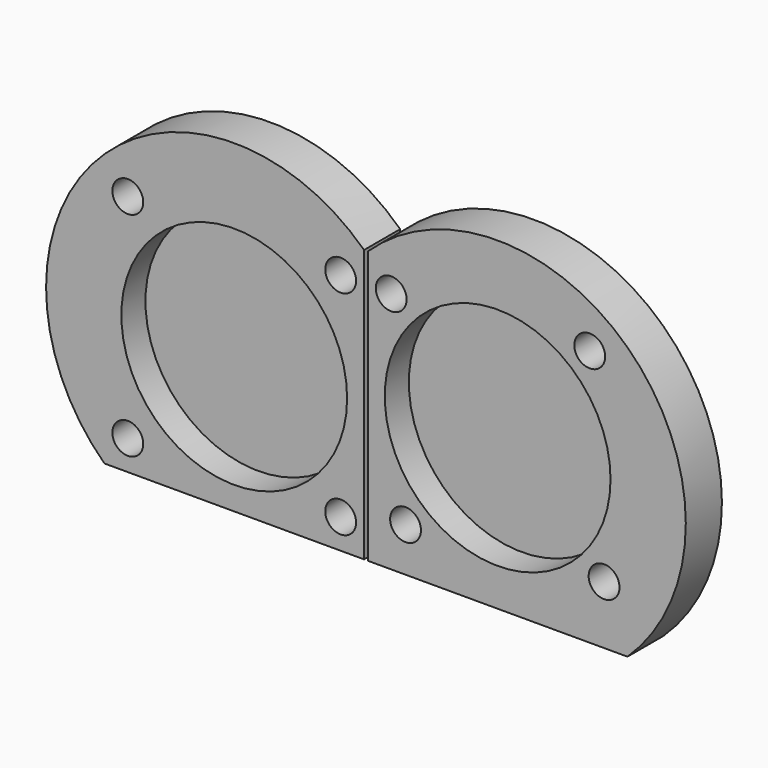
from build123d import *

# Parameters (mm, degrees)
F0_R     = 4.1
F0_R_2   = 30
F1_DEPTH = 8
F2_DEPTH = 4
F3_DEPTH = 4


with BuildPart() as f1:
    # F0 (on Front) → F1 (new body)
    with BuildSketch(Plane.XZ):
        with BuildLine():
            Line((-0.5, -36.1904683584), (-0.5, 36.1904683584))
            ThreePointArc((-0.5, 36.1904683584), (-71.1904683584, 34.5), (-69.5, -36.1904683584))
            Line((-69.5, -36.1904683584), (-0.5, -36.1904683584))
        make_face()
        with Locations((-63.2842712475, -28.2842712475)):
            Circle(F0_R, mode=Mode.SUBTRACT)
        with Locations((-6.7157287525, -28.2842712475)):
            Circle(F0_R, mode=Mode.SUBTRACT)
        with Locations((-35, 0)):
            Circle(F0_R_2, mode=Mode.SUBTRACT)
        with Locations((-63.2842712475, 28.2842712475)):
            Circle(F0_R, mode=Mode.SUBTRACT)
        with Locations((-6.7157287525, 28.2842712475)):
            Circle(F0_R, mode=Mode.SUBTRACT)
    extrude(amount=F1_DEPTH)

    # F0 (on Front) → F2 (join)
    with BuildSketch(Plane.XZ):
        with BuildLine():
            Line((-0.5, -36.1904683584), (-0.5, 36.1904683584))
            ThreePointArc((-0.5, 36.1904683584), (-71.1904683584, 34.5), (-69.5, -36.1904683584))
            Line((-69.5, -36.1904683584), (-0.5, -36.1904683584))
        make_face()
        with Locations((-63.2842712475, -28.2842712475)):
            Circle(F0_R, mode=Mode.SUBTRACT)
        with Locations((-6.7157287525, -28.2842712475)):
            Circle(F0_R, mode=Mode.SUBTRACT)
        with Locations((-35, 0)):
            Circle(F0_R_2, mode=Mode.SUBTRACT)
        with Locations((-63.2842712475, 28.2842712475)):
            Circle(F0_R, mode=Mode.SUBTRACT)
        with Locations((-6.7157287525, 28.2842712475)):
            Circle(F0_R, mode=Mode.SUBTRACT)
        with Locations((-35, 0)):
            Circle(F0_R_2)
    extrude(amount=-F2_DEPTH)


with BuildPart() as f1b:
    # F0 (on Front) → F1, piece 2 (new body)
    with BuildSketch(Plane.XZ):
        with BuildLine():
            Line((0.5, -36.1904683584), (69.5, -36.1904683584))
            ThreePointArc((69.5, -36.1904683584), (71.1904683584, 34.5), (0.5, 36.1904683584))
            Line((0.5, 36.1904683584), (0.5, -36.1904683584))
        make_face()
        with Locations((10.5252603941, -24.4747396059)):
            Circle(F0_R, mode=Mode.SUBTRACT)
        with Locations((63.2842712475, -20.6652079643)):
            Circle(F0_R, mode=Mode.SUBTRACT)
        with Locations((35, 3.8095316416)):
            Circle(F0_R_2, mode=Mode.SUBTRACT)
        with Locations((6.7157287525, 28.2842712475)):
            Circle(F0_R, mode=Mode.SUBTRACT)
        with Locations((59.4747396059, 32.0938028891)):
            Circle(F0_R, mode=Mode.SUBTRACT)
    extrude(amount=F1_DEPTH)

    # F0 (on Front) → F3 (join)
    with BuildSketch(Plane.XZ):
        with BuildLine():
            Line((0.5, -36.1904683584), (69.5, -36.1904683584))
            ThreePointArc((69.5, -36.1904683584), (71.1904683584, 34.5), (0.5, 36.1904683584))
            Line((0.5, 36.1904683584), (0.5, -36.1904683584))
        make_face()
        with Locations((10.5252603941, -24.4747396059)):
            Circle(F0_R, mode=Mode.SUBTRACT)
        with Locations((63.2842712475, -20.6652079643)):
            Circle(F0_R, mode=Mode.SUBTRACT)
        with Locations((35, 3.8095316416)):
            Circle(F0_R_2, mode=Mode.SUBTRACT)
        with Locations((6.7157287525, 28.2842712475)):
            Circle(F0_R, mode=Mode.SUBTRACT)
        with Locations((59.4747396059, 32.0938028891)):
            Circle(F0_R, mode=Mode.SUBTRACT)
        with Locations((35, 3.8095316416)):
            Circle(F0_R_2)
    extrude(amount=-F3_DEPTH)


solid = Compound([f1.part, f1b.part])
